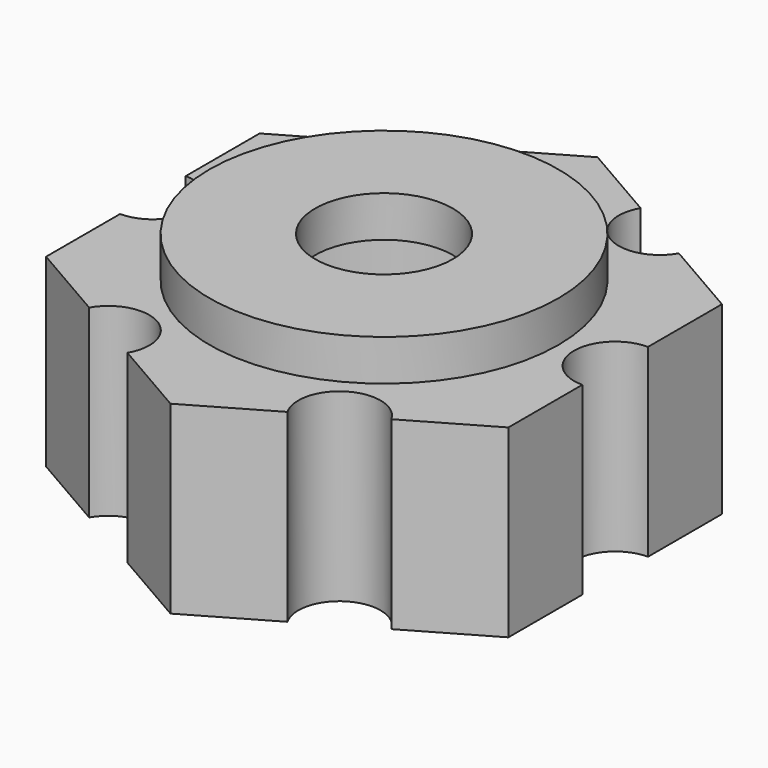
from build123d import *

# Parameters (mm, degrees)
F0_R     = 8.5
F1_DEPTH = 9
F0_R_2   = 3.35
F2_DEPTH = 11
F3_R     = 7.5
F3_R_2   = 3.35
F4_DEPTH = 9


with BuildPart() as f1:
    # F0 (on Top) → F1 (new body)
    with BuildSketch(Plane.XY):
        with BuildLine():
            Line((-11.25833, -2), (-11.25833, -6.5))
            Line((-11.25833, -6.5), (-7.361216, -8.75))
            ThreePointArc((-7.361216, -8.75), (-5.111527, -7.818148), (-3.629165, -9.75))
            ThreePointArc((-3.629165, -9.75), (-3.697313, -10.267638), (-3.897114, -10.75))
            Line((-3.897114, -10.75), (0, -13))
            Line((0, -13), (3.897114, -10.75))
            ThreePointArc((3.897114, -10.75), (4.629165, -8.017949), (7.361216, -8.75))
            Line((7.361216, -8.75), (11.25833, -6.5))
            Line((11.25833, -6.5), (11.25833, -2))
            ThreePointArc((11.25833, -2), (9.25833, 0), (11.25833, 2))
            Line((11.25833, 2), (11.25833, 6.5))
            Line((11.25833, 6.5), (7.361216, 8.75))
            ThreePointArc((7.361216, 8.75), (4.629165, 8.017949), (3.897114, 10.75))
            Line((3.897114, 10.75), (0, 13))
            Line((0, 13), (-3.897114, 10.75))
            ThreePointArc((-3.897114, 10.75), (-3.697313, 10.267638), (-3.629165, 9.75))
            ThreePointArc((-3.629165, 9.75), (-5.111527, 7.818148), (-7.361216, 8.75))
            Line((-7.361216, 8.75), (-11.25833, 6.5))
            Line((-11.25833, 6.5), (-11.25833, 2))
            ThreePointArc((-11.25833, 2), (-9.844117, 1.414214), (-9.25833, 0))
            ThreePointArc((-9.25833, 0), (-9.844117, -1.414214), (-11.25833, -2))
        make_face()
        Circle(F0_R, mode=Mode.SUBTRACT)
    extrude(amount=F1_DEPTH)

    # F0 (on Top) → F2 (join)
    with BuildSketch(Plane.XY):
        Circle(F0_R)
        Circle(F0_R_2, mode=Mode.SUBTRACT)
    extrude(amount=F2_DEPTH)

    # F3 (on face) → F4 (cut)
    with BuildSketch(Plane(origin=(0, 0, 0), x_dir=(1, 0, 0), z_dir=(0, 0, -1))):
        Circle(F3_R)
        Circle(F3_R_2, mode=Mode.SUBTRACT)
    extrude(amount=-F4_DEPTH, mode=Mode.SUBTRACT)


solid = f1.part
